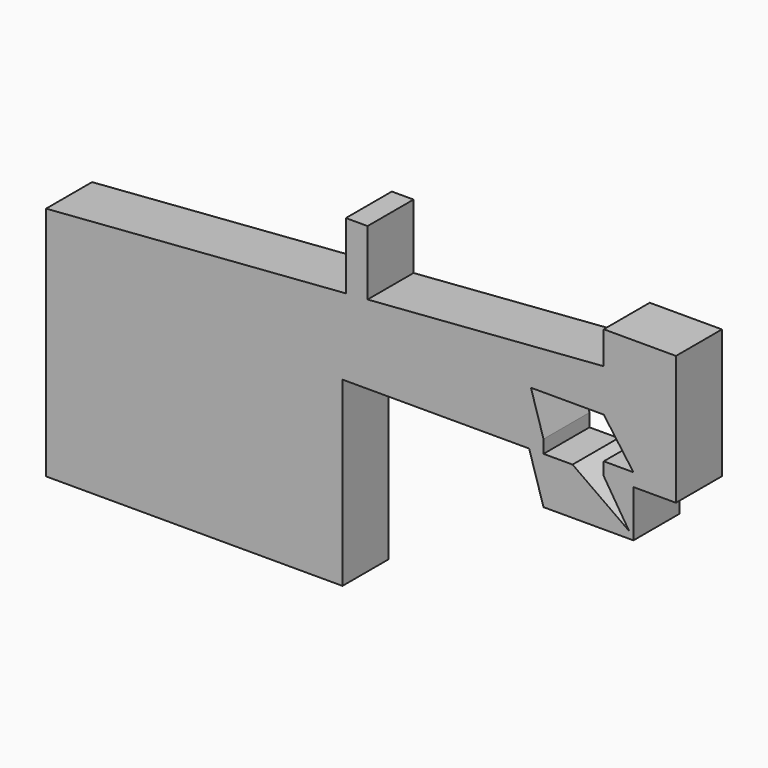
from build123d import *

# Parameters (mm, degrees)
F0_W     = 13.1206735969
F0_H     = 5.7628303766
F0_W_2   = 9.6076056361
F0_H_2   = 23.9247754216
F0_W_3   = 1.4953166246
F1_DEPTH = 25.4


with BuildPart() as f1:
    # F0 (on Front) → F1 (new body)
    with BuildSketch(Plane.XZ):
        Polygon((20.9109149873, 23.9247754216), (53.1037151814, 23.9247754216), (53.1037151814, 42.7394804328), (-51.2902662158, 34.7721107152), (-51.2902662158, 23.9247754216), align=None)
        Polygon((53.1037151814, 42.7394804328), (53.1037151814, 23.9247754216), (66.2243887782, 5.7628303766), (66.2243887782, 0), (85.0230753422, 0), (85.0230753422, 45.1755724388), align=None)
        Polygon((20.1173499505, 0), (20.9109149873, 23.9247754216), (-51.2902662158, 23.9247754216), (-51.2902662158, 0), align=None)
        Polygon((26.4795012772, 5.7628303766), (20.9109149873, 23.9247754216), (20.1173499505, 0), (26.4795012772, 0), align=None)
        with Locations((59.6640519798, 2.8814151883)):
            Rectangle(F0_W, F0_H)
        Polygon((53.1037151814, 57.1449995041), (53.1037151814, 42.7394804328), (85.0230753422, 45.1755724388), (85.0230753422, 57.1449995041), align=None)
        with Locations((-56.0940690339, 11.9623877108)):
            Rectangle(F0_W_2, F0_H_2)
        Polygon((-60.8978718519, 23.9247754216), (-51.2902662158, 23.9247754216), (-51.2902662158, 34.7721107152), (-60.8978718519, 34.0388563151), align=None)
        Polygon((26.4795012772, 0), (20.1173499505, 0), (26.4795012772, -20.7501575351), align=None)
        Polygon((66.2243887782, 0), (53.1037151814, 0), (64.2842540453, -17.6818622185), (66.2243887782, -19.0556111635), align=None)
        Polygon((-60.8978718519, 34.0388563151), (-51.2902662158, 34.7721107152), (-51.2902662158, 63.3518993855), (-60.8978718519, 63.3518993855), align=None)
        with Locations((-61.6455301642, 11.9623877108)):
            Rectangle(F0_W_3, F0_H_2)
        Polygon((-62.3931884766, 23.9247754216), (-60.8978718519, 23.9247754216), (-60.8978718519, 34.0388563151), (-193.4195458889, 23.9247754216), align=None)
        Polygon((39.3123003569, 0), (26.4795012772, 0), (26.4795012772, -20.7501575351), (66.2243887782, -20.7501575351), (64.2842540453, -17.6818622185), align=None)
        Polygon((66.2243887782, -19.0556111635), (64.2842540453, -17.6818622185), (66.2243887782, -20.7501575351), align=None)
        Polygon((-62.3931884766, 0), (-62.3931884766, 23.9247754216), (-193.4195458889, 23.9247754216), (-193.4195458889, -80.2987962961), (-62.3931884766, -80.2987962961), align=None)
    extrude(amount=F1_DEPTH)


solid = f1.part
